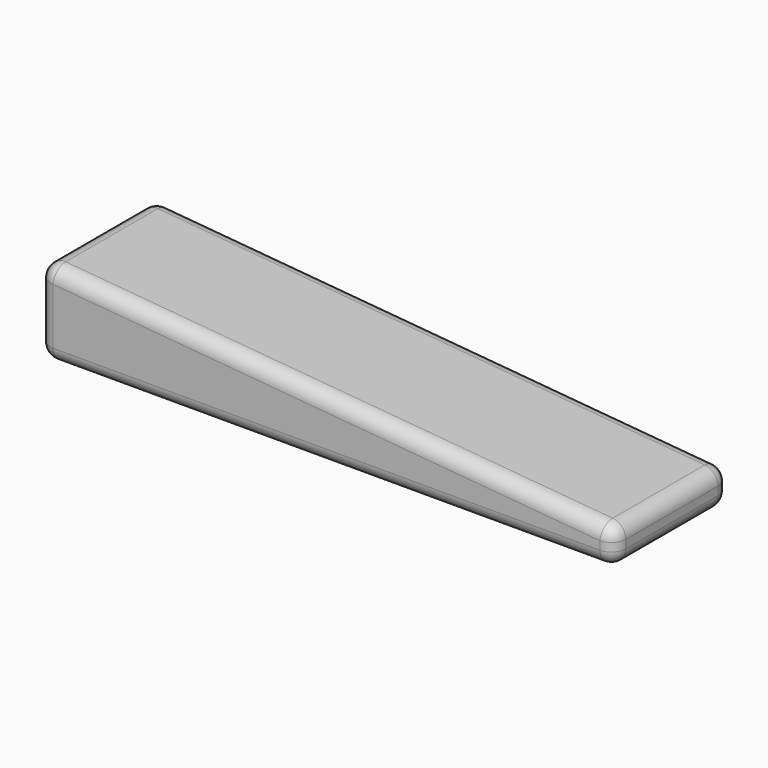
from build123d import *

# Parameters (mm, degrees)
PAD_DEPTH = 20
FILLET_R  = 2


with BuildPart() as part:
    # Sketch → Pad (new body)
    with BuildSketch(Plane.XZ):
        Polygon((0, 0), (0, 12), (80, 5), (80, 0), align=None)
    extrude(amount=PAD_DEPTH)

    # Fillet
    fillet_edges = [part.edges().sort_by_distance(p)[0] for p in [
        (0, -10, 0),
        (0, -10, 12),
        (0, 0, 6),
        (0, -20, 6),
        (80, -10, 5),
        (40, 0, 8.5),
        (40, -20, 8.5),
        (80, -10, 0),
        (80, 0, 2.5),
        (80, -20, 2.5),
        (40, 0, 0),
        (40, -20, 0),
    ]]
    fillet(fillet_edges, radius=FILLET_R)


solid = part.part
